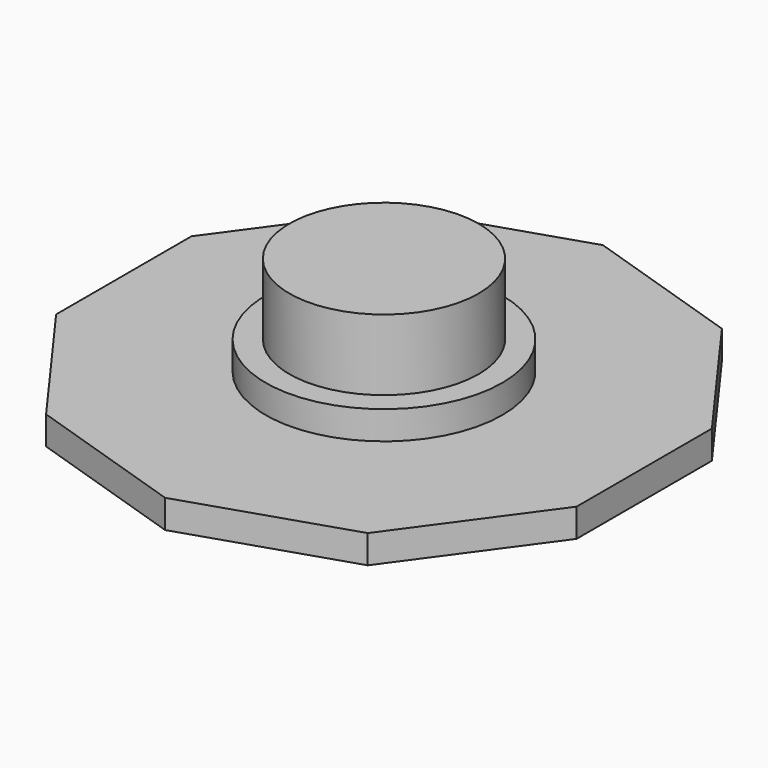
from build123d import *

# Parameters (mm, degrees)
F1_DEPTH = 1.2
F2_R     = 5
F3_DEPTH = 1.2
F4_R     = 4
F5_DEPTH = 3


with BuildPart() as f1:
    # F0 (on Top) → F1 (new body)
    with BuildSketch(Plane.XY):
        Polygon((-11, 3.574117), (-11, -3.574117), (-6.798374, -9.357159), (0, -11.566084), (6.798374, -9.357159), (11, -3.574117), (11, 3.574117), (6.798374, 9.357159), (0, 11.566084), (-6.798374, 9.357159), align=None)
    extrude(amount=F1_DEPTH)

    # F2 (on face) → F3 (join)
    with BuildSketch(Plane.XY.offset(1.2)):
        Circle(F2_R)
    extrude(amount=F3_DEPTH)

    # F4 (on face) → F5 (join)
    with BuildSketch(Plane.XY.offset(2.4)):
        Circle(F4_R)
    extrude(amount=F5_DEPTH)


solid = f1.part
